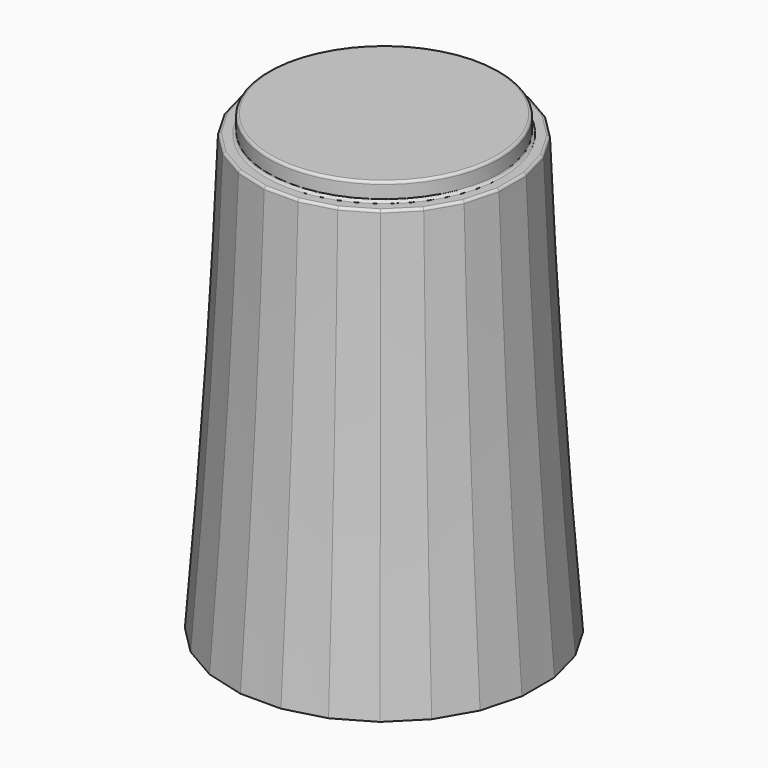
from build123d import *

# Parameters (mm, degrees)
SKETCH019_R     = 4.5
PAD004_DEPTH    = 0.7
SKETCH018_R     = 5
POCKET007_DEPTH = 1
SKETCH016_R     = 4.65
POCKET006_DEPTH = 1
POCKET008_DEPTH = 8
CHAMFER005_SIZE = 1.4
CHAMFER004_SIZE = 0.3
FILLET002_R     = 0.1


with BuildPart() as part:
    # Sketch021 → AdditiveLoft002 section 0
    with BuildSketch(Plane.XY):
        Polygon((-0.789915, 6), (-2.315914, 5.59111), (-3.684086, 4.801195), (-4.801195, 3.684086), (-5.59111, 2.315914), (-6, 0.789915), (-6, -0.789915), (-5.59111, -2.315914), (-4.801195, -3.684086), (-3.684086, -4.801195), (-2.315914, -5.59111), (-0.789915, -6), (0.789915, -6), (2.315914, -5.59111), (3.684086, -4.801195), (4.801195, -3.684086), (5.59111, -2.315914), (6, -0.789915), (6, 0.789915), (5.59111, 2.315914), (4.801195, 3.684086), (3.684086, 4.801195), (2.315914, 5.59111), (0.789915, 6), align=None)
    # Sketch020 → AdditiveLoft002 section 1
    with BuildSketch(Plane.XY.offset(7)):
        Polygon((-0.724089, 5.5), (-2.122921, 5.125184), (-3.377079, 4.401095), (-4.401095, 3.377079), (-5.125184, 2.122921), (-5.5, 0.724089), (-5.5, -0.724089), (-5.125184, -2.122921), (-4.401095, -3.377079), (-3.377079, -4.401095), (-2.122921, -5.125184), (-0.724089, -5.5), (0.724089, -5.5), (2.122921, -5.125184), (3.377079, -4.401095), (4.401095, -3.377079), (5.125184, -2.122921), (5.5, -0.724089), (5.5, 0.724089), (5.125184, 2.122921), (4.401095, 3.377079), (3.377079, 4.401095), (2.122921, 5.125184), (0.724089, 5.5), align=None)
    # Sketch022 → AdditiveLoft002 section 2
    with BuildSketch(Plane.XY.offset(17)):
        Polygon((-4.659258, 1.929928), (-5, 0.658262), (-5, -0.658262), (-4.659258, -1.929928), (-4.000996, -3.070072), (-3.070072, -4.000996), (-1.929928, -4.659258), (-0.658262, -5), (0.658262, -5), (1.929928, -4.659258), (3.070072, -4.000996), (4.000996, -3.070072), (4.659258, -1.929928), (5, -0.658262), (5, 0.658262), (4.659258, 1.929928), (4.000996, 3.070072), (3.070072, 4.000996), (1.929928, 4.659258), (0.658262, 5), (-0.658262, 5), (-1.929928, 4.659258), (-3.070072, 4.000996), (-4.000996, 3.070072), align=None)
    loft()

    # Sketch019 (on Face3 of AdditiveLoft002) → Pad004 (new body)
    with BuildSketch(Plane.XY.offset(17)):
        Circle(SKETCH019_R)
    extrude(amount=PAD004_DEPTH)

    # Sketch018 (on Face1 of Pad004) → Pocket007 (cut)
    with BuildSketch(Plane(origin=(0, 0, 0), x_dir=(1, 0, 0), z_dir=(0, 0, -1))):
        Circle(SKETCH018_R)
    extrude(amount=-POCKET007_DEPTH, mode=Mode.SUBTRACT)

    # Sketch016 (on Face28 of Pocket007) → Pocket006 (cut)
    with BuildSketch(Plane(origin=(0, 0, 1), x_dir=(1, 0, 0), z_dir=(0, 0, -1))):
        Circle(SKETCH016_R)
    extrude(amount=-POCKET006_DEPTH, mode=Mode.SUBTRACT)

    # Sketch017 (on Face32 of Pocket006) → Pocket008 (cut)
    with BuildSketch(Plane(origin=(0, 0, 2), x_dir=(1, 0, 0), z_dir=(0, 0, -1))):
        with BuildLine():
            ThreePointArc((-1.741757, 2.442598), (0, -3), (1.741757, 2.442598))
            Line((-1.741757, 2.442598), (1.741757, 2.442598))
        make_face()
    extrude(amount=-POCKET008_DEPTH, mode=Mode.SUBTRACT)

    # Chamfer005
    chamfer005_edges = [part.edges().sort_by_distance(p)[0] for p in [
        (0, 3, 2),
        (0, -2.442598, 2),
    ]]
    chamfer(chamfer005_edges, length=CHAMFER005_SIZE)

    # Chamfer004
    chamfer004_edges = [part.edges().sort_by_distance(p)[0] for p in [
        (-4.65, 0, 1),
    ]]
    chamfer(chamfer004_edges, length=CHAMFER004_SIZE)

    # Fillet002
    fillet002_edges = [part.edges().sort_by_distance(p)[0] for p in [
        (-4.5, 0, 17.7),
        (-4.829629, 1.294095, 17),
        (-4.330127, 2.5, 17),
        (-5, 0, 17),
        (-3.535534, 3.535534, 17),
        (-4.829629, -1.294095, 17),
        (-2.5, 4.330127, 17),
        (-4.330127, -2.5, 17),
        (-1.294095, 4.829629, 17),
        (-3.535534, -3.535534, 17),
        (0, 5, 17),
        (-2.5, -4.330127, 17),
        (1.294095, 4.829629, 17),
        (-1.294095, -4.829629, 17),
        (2.5, 4.330127, 17),
        (0, -5, 17),
        (3.535534, 3.535534, 17),
        (1.294095, -4.829629, 17),
        (4.330127, 2.5, 17),
        (2.5, -4.330127, 17),
        (4.829629, 1.294095, 17),
        (3.535534, -3.535534, 17),
        (5, 0, 17),
        (4.330127, -2.5, 17),
        (4.829629, -1.294095, 17),
        (-4.5, 0, 17),
    ]]
    fillet(fillet002_edges, radius=FILLET002_R)


solid = part.part
